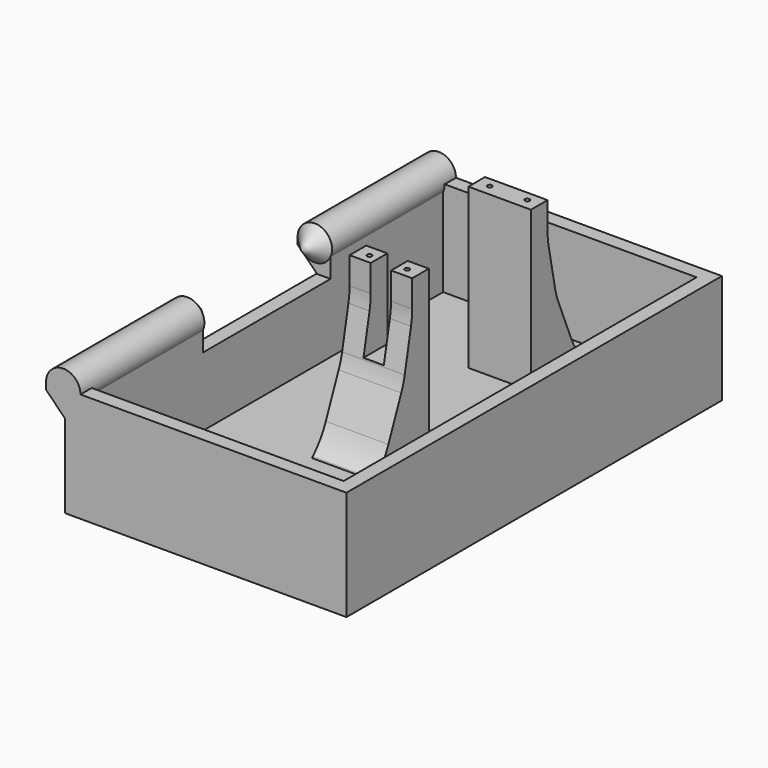
from build123d import *

# Parameters (mm, degrees)
SKETCH008_W     = 90
SKETCH008_H     = 150
PAD003_DEPTH    = 35
SKETCH009_W     = 81
SKETCH009_H     = 141
POCKET003_DEPTH = 30.5
SKETCH013_R     = 5.5
PAD006_DEPTH    = 150
SKETCH014_W     = 51
SKETCH014_H     = 14
POCKET005_DEPTH = 6
PAD008_DEPTH    = 49.5
PAD009_DEPTH    = 49.5
SKETCH021_W     = 20
SKETCH021_H     = 6.65
PAD010_DEPTH    = 51
CHAMFER001_SIZE = 15
SKETCH022_R     = 0.75
POCKET007_DEPTH = 11.8
CHAMFER002_SIZE = 16
CHAMFER003_SIZE = 9
FILLET001_R     = 24
SKETCH023_W     = 6.5
SKETCH023_H     = 25.5
POCKET008_DEPTH = 16


with BuildPart() as part:
    # Sketch008 → Pad003 (new body)
    with BuildSketch(Plane.XY):
        with Locations((45, 75)):
            Rectangle(SKETCH008_W, SKETCH008_H)
    extrude(amount=PAD003_DEPTH)

    # Sketch009 (on Face6 of Pad003) → Pocket003 (cut)
    with BuildSketch(Plane.XY.offset(35)):
        with Locations((45, 75)):
            Rectangle(SKETCH009_W, SKETCH009_H)
    extrude(amount=-POCKET003_DEPTH, mode=Mode.SUBTRACT)

    # Sketch013 → Pad006 (join)
    with BuildSketch(Plane.XZ):
        with Locations((-0.5, 35)):
            Circle(SKETCH013_R)
    extrude(amount=-PAD006_DEPTH)

    # Sketch014 → Pocket005 (cut, symmetric)
    with BuildSketch(Plane.YZ):
        with Locations((75, 33.5)):
            Rectangle(SKETCH014_W, SKETCH014_H)
    extrude(amount=POCKET005_DEPTH, both=True, mode=Mode.SUBTRACT)

    # Sketch017 (on Face13 of Pocket005) → Pad008 (join)
    with BuildSketch(Plane.XZ):
        Polygon((0, 26.7), (-6, 32.7), (-6, 35), (0, 35), align=None)
    extrude(amount=-PAD008_DEPTH)

    # Sketch018 (on Face19 of Pad008) → Pad009 (join)
    with BuildSketch(Plane.XZ.offset(-100.5)):
        Polygon((0, 26.7), (0, 35), (-6, 35), (-6, 32.7), align=None)
    extrude(amount=-PAD009_DEPTH)

    # Sketch019 (on DatumPlane) → Revolution (revolve)
    with BuildSketch(Plane(origin=(-0.5, 100.5, 0), x_dir=(0, 1, 0), z_dir=(1, 0, 0))):
        Polygon((0, 35), (-5.5, 35), (0, 29.5), align=None)
        Polygon((-51, 35), (-45.5, 35), (-51, 29.5), align=None)
    revolve(axis=Axis((-0.5, 100.5, 35), (0, -1, 0)))

    # Sketch021 (on Face26 of Revolution) → Pad010 (join)
    with BuildSketch(Plane.XY.offset(4.5)):
        with Locations((45, 120.775)):
            Rectangle(SKETCH021_W, SKETCH021_H)
        with Locations((45, 73.325)):
            Rectangle(SKETCH021_W, SKETCH021_H)
    extrude(amount=PAD010_DEPTH)

    # Chamfer001
    chamfer001_edges = [part.edges().sort_by_distance(p)[0] for p in [
        (45, 70, 4.5),
        (45, 124.1, 4.5),
    ]]
    chamfer(chamfer001_edges, length=CHAMFER001_SIZE)

    # Sketch022 (on Face23 of Chamfer001) → Pocket007 (cut)
    with BuildSketch(Plane.XY.offset(55.5)):
        with Locations((39, 121)):
            Circle(SKETCH022_R)
        with Locations((51, 121)):
            Circle(SKETCH022_R)
        with Locations((39, 73)):
            Circle(SKETCH022_R)
        with Locations((51, 73)):
            Circle(SKETCH022_R)
    extrude(amount=-POCKET007_DEPTH, mode=Mode.SUBTRACT)

    # Chamfer002
    chamfer002_edges = [part.edges().sort_by_distance(p)[0] for p in [
        (45, 70, 19.5),
        (45, 124.1, 19.5),
    ]]
    chamfer(chamfer002_edges, length=CHAMFER002_SIZE)

    # Chamfer003
    chamfer003_edges = [part.edges().sort_by_distance(p)[0] for p in [
        (45, 70, 35.5),
        (45, 124.1, 35.5),
    ]]
    chamfer(chamfer003_edges, length=CHAMFER003_SIZE)

    # Fillet001
    fillet001_edges = [part.edges().sort_by_distance(p)[0] for p in [
        (45, 124.1, 44.5),
        (45, 127.544151, 27.185084),
        (45, 135.413708, 8.186292),
        (45, 58.686292, 8.186292),
        (45, 66.555849, 27.185084),
        (45, 70, 44.5),
    ]]
    fillet(fillet001_edges, radius=FILLET001_R)

    # Sketch023 (on Face6 of Fillet001) → Pocket008 (cut)
    with BuildSketch(Plane(origin=(0, 76.65, 0), x_dir=(-1, 0, 0), z_dir=(0, 1, 0))):
        with Locations((-45, 42.75)):
            Rectangle(SKETCH023_W, SKETCH023_H)
    extrude(amount=-POCKET008_DEPTH, mode=Mode.SUBTRACT)


solid = part.part
